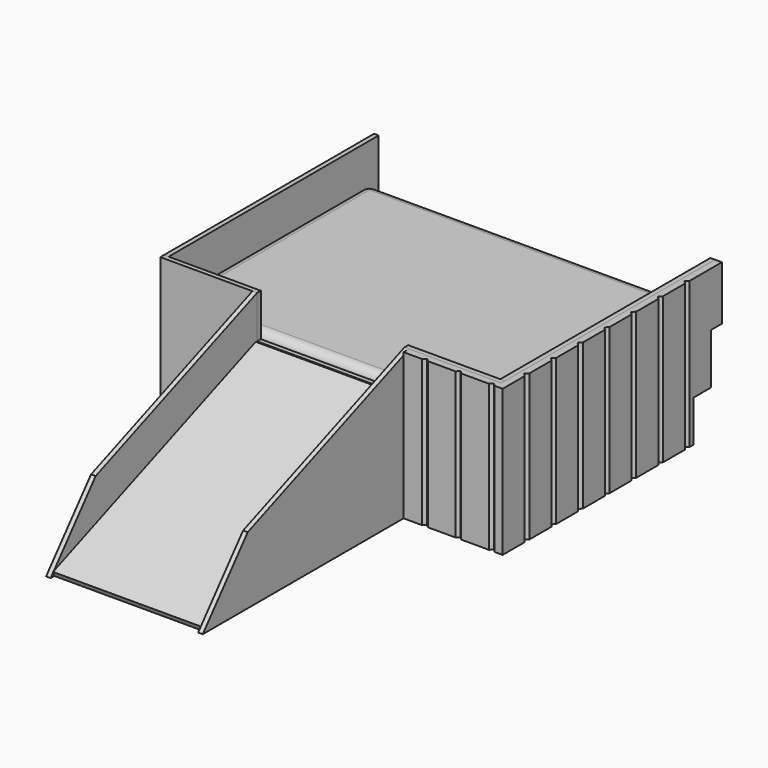
from build123d import *

# Parameters (mm, degrees)
F0_W      = 914.4
F0_H      = 685.8
F1_DEPTH  = 12.7
F2_W      = 38.1
F2_H      = 88.9
F3_DEPTH  = 215.9
F4_W      = 38.1
F4_H      = 88.9
F5_DEPTH  = 279.4
F7_DEPTH  = 914.4
F8_W      = 406.4
F8_H      = 750.4688468649
F9_DEPTH  = 12.7
F11_DEPTH = 12.7
F13_DEPTH = 12.7
F15_DEPTH = 12.7
F17_DEPTH = 12.7
F18_W     = 38.1
F18_H     = 88.9
F19_DEPTH = 838.2
F20_W     = 38.1
F20_H     = 88.9
F21_DEPTH = 546.1
F24_DEPTH = 19.05
F27_DEPTH = 403.225
F28_W     = 914.4
F28_H     = 685.8
F29_DEPTH = 76.2
F30_R     = 25.4
F32_DEPTH = 19.05


with BuildPart() as f1:
    # F0 (on Top) → F1 (new body)
    with BuildSketch(Plane.XY):
        with Locations((0, -342.9)):
            Rectangle(F0_W, F0_H)
    extrude(amount=-F1_DEPTH)

    # F2 (on face) → F3 (join)
    with BuildSketch(Plane(origin=(0, 0, -12.7), x_dir=(1, 0, 0), z_dir=(0, 0, -1))):
        with Locations((-438.15, 107.95)):
            Rectangle(F2_W, F2_H)
        with Locations((-438.15, 641.35)):
            Rectangle(F2_W, F2_H)
        with Locations((438.15, 107.95)):
            Rectangle(F2_W, F2_H)
        with Locations((438.15, 641.35)):
            Rectangle(F2_W, F2_H)
        with Locations((-38.1, 146.05)):
            Rectangle(F2_W, F2_H)
        with Locations((38.1, 603.25)):
            Rectangle(F2_W, F2_H)
    extrude(amount=F3_DEPTH)


with BuildPart() as f5:
    # F4 (on face) → F5 (new body)
    with BuildSketch(Plane(origin=(0, 0, -228.6), x_dir=(1, 0, 0), z_dir=(0, 0, -1))):
        with Locations((184.15, 742.95)):
            Rectangle(F4_W, F4_H)
    extrude(amount=-F5_DEPTH)


with BuildPart() as f5b:
    # F4 (on face) → F5, piece 2 (new body)
    with BuildSketch(Plane(origin=(0, 0, -228.6), x_dir=(1, 0, 0), z_dir=(0, 0, -1))):
        with Locations((-184.15, 742.95)):
            Rectangle(F4_W, F4_H)
    extrude(amount=-F5_DEPTH)


with BuildPart() as f5c:
    # F4 (on face) → F5, piece 3 (new body)
    with BuildSketch(Plane(origin=(0, 0, -228.6), x_dir=(1, 0, 0), z_dir=(0, 0, -1))):
        with Locations((184.15, 1035.05)):
            Rectangle(F4_W, F4_H)
    extrude(amount=-F5_DEPTH)


with BuildPart() as f5d:
    # F4 (on face) → F5, piece 4 (new body)
    with BuildSketch(Plane(origin=(0, 0, -228.6), x_dir=(1, 0, 0), z_dir=(0, 0, -1))):
        with Locations((-184.15, 1035.05)):
            Rectangle(F4_W, F4_H)
    extrude(amount=-F5_DEPTH)


with BuildPart() as f7_tool:
    # F6 (on face) → F7 (new body)
    with BuildSketch(Plane(origin=(-203.2, 0, 0), x_dir=(0, -1, 0), z_dir=(-1, 0, 0))):
        Polygon((685.8, 149.225), (685.8, 50.8), (1397, -228.6), (1397, 149.225), align=None)
    extrude(amount=-F7_DEPTH)


with BuildPart() as f5_1:
    add(f5.part)

    # F7: cut by f7_tool
    add(f7_tool.part, mode=Mode.SUBTRACT)


with BuildPart() as f5b_1:
    add(f5b.part)

    # F7: cut by f7_tool
    add(f7_tool.part, mode=Mode.SUBTRACT)


with BuildPart() as f5c_1:
    add(f5c.part)

    # F7: cut by f7_tool
    add(f7_tool.part, mode=Mode.SUBTRACT)


with BuildPart() as f5d_1:
    add(f5d.part)

    # F7: cut by f7_tool
    add(f7_tool.part, mode=Mode.SUBTRACT)


with BuildPart() as f9:
    # F8 (on face) → F9 (new body)
    with BuildSketch(Plane(origin=(0, -108.9814364641, 277.4072928177), x_dir=(1, 0, 0), z_dir=(0, -0.3656523724, 0.9307514934))):
        with Locations((0, -1008.6135452396)):
            Rectangle(F8_W, F8_H)
    extrude(amount=F9_DEPTH)


with BuildPart() as f11:
    # F10 (on face) → F11 (new body)
    with BuildSketch(Plane.XZ.offset(685.8)):
        Polygon((-469.9, -228.6), (469.9, -228.6), (469.9, 174.625), (203.2, 174.625), (203.2, 57.15), (-203.2, 57.15), (-203.2, 174.625), (-469.9, 174.625), align=None)
    extrude(amount=F11_DEPTH)


with BuildPart() as f13:
    # F12 (on face) → F13 (new body)
    with BuildSketch(Plane.YZ.offset(457.2)):
        Polygon((-685.8, 174.625), (-685.8, -228.6), (-60.325, -228.6), (-60.325, -114.3), (0, -114.3), (0, 25.4), (38.1, 25.4), (38.1, 174.625), align=None)
    extrude(amount=F13_DEPTH)


with BuildPart() as f15:
    # F14 (on face) → F15 (new body)
    with BuildSketch(Plane(origin=(-457.2, 0, 0), x_dir=(0, -1, 0), z_dir=(-1, 0, 0))):
        Polygon((60.325, -228.6), (685.8, -228.6), (685.8, 174.625), (-38.1, 174.625), (-38.1, 25.4), (0, 25.4), (0, -114.3), (60.325, -114.3), align=None)
    extrude(amount=F15_DEPTH)


with BuildPart() as f17:
    # F16 (on face) → F17 (new body)
    with BuildSketch(Plane.YZ.offset(203.2)):
        Polygon((-1409.7, -228.6), (-698.5, -228.6), (-698.5, 174.625), (-1254.7049439564, -43.8840851257), align=None)
    extrude(amount=F17_DEPTH)


with BuildPart() as f19:
    # F18 (on face) → F19 (new body)
    with BuildSketch(Plane(origin=(419.1, 0, 0), x_dir=(0, -1, 0), z_dir=(-1, 0, 0))):
        with Locations((666.75, -57.15)):
            Rectangle(F18_W, F18_H)
    extrude(amount=F19_DEPTH)


with BuildPart() as f19b:
    # F18 (on face) → F19, piece 2 (new body)
    with BuildSketch(Plane(origin=(419.1, 0, 0), x_dir=(0, -1, 0), z_dir=(-1, 0, 0))):
        with Locations((82.55, -57.15)):
            Rectangle(F18_W, F18_H)
    extrude(amount=F19_DEPTH)


with BuildPart() as f21:
    # F20 (on face) → F21 (new body, through all)
    with BuildSketch(Plane(origin=(0, -647.7, 0), x_dir=(-1, 0, 0), z_dir=(0, 1, 0))):
        with Locations((0, -57.15)):
            Rectangle(F20_W, F20_H)
    extrude(amount=F21_DEPTH)


with BuildPart() as f21b:
    # F20 (on face) → F21, piece 2 (new body, through all)
    with BuildSketch(Plane(origin=(0, -647.7, 0), x_dir=(-1, 0, 0), z_dir=(0, 1, 0))):
        with Locations((-400.05, -57.15)):
            Rectangle(F20_W, F20_H)
    extrude(amount=F21_DEPTH)


with BuildPart() as f21c:
    # F20 (on face) → F21, piece 3 (new body, through all)
    with BuildSketch(Plane(origin=(0, -647.7, 0), x_dir=(-1, 0, 0), z_dir=(0, 1, 0))):
        with Locations((400.05, -57.15)):
            Rectangle(F20_W, F20_H)
    extrude(amount=F21_DEPTH)


with BuildPart() as f22_1:
    # F22: copy of F17
    add(f17.part.moved(Location((-419.1, 0, 0))))


with BuildPart() as f24:
    # F23 (on face) → F24 (new body)
    with BuildSketch(Plane.YZ.offset(-165.1)):
        Polygon((-698.5, 4.8760499113), (-698.5, 45.8107142857), (-1397, -228.6), (-1292.8026725014, -228.6), align=None)
    extrude(amount=F24_DEPTH)


with BuildPart() as f25_1:
    # F25: copy of F24
    add(f24.part.moved(Location((311.15, 0, 0))))


with BuildPart() as f27:
    # F26 (on face) → F27 (new body, through all)
    with BuildSketch(Plane(origin=(0, 0, -228.6), x_dir=(1, 0, 0), z_dir=(0, 0, -1))):
        Polygon((215.9, 717.55), (215.9, 698.5), (469.9, 698.5), (469.9, 60.325), (488.95, 60.325), (488.95, 73.025), (481.0125, 80.9625), (488.95, 88.9), (488.95, 165.1), (481.0125, 173.0375), (488.95, 180.975), (488.95, 257.175), (481.0125, 265.1125), (488.95, 273.05), (488.95, 349.25), (481.0125, 357.1875), (488.95, 365.125), (488.95, 441.325), (481.0125, 449.2625), (488.95, 457.2), (488.95, 533.4), (481.0125, 541.3375), (488.95, 549.275), (488.95, 625.475), (481.0125, 633.4125), (488.95, 641.35), (488.95, 717.55), (466.725, 717.55), (458.7875, 709.6125), (450.85, 717.55), (374.65, 717.55), (366.7125, 709.6125), (358.775, 717.55), (282.575, 717.55), (274.6375, 709.6125), (266.7, 717.55), align=None)
    extrude(amount=-F27_DEPTH)

    # F31 (on face) → F32 (join)
    with BuildSketch(Plane.YZ.offset(469.9)):
        Polygon((38.1, 25.4), (38.1, 174.625), (-60.325, 174.625), (-60.325, -114.3), (0, -114.3), (0, 25.4), align=None)
    extrude(amount=F32_DEPTH)


with BuildPart() as f29:
    # F28 (on face) → F29 (new body)
    with BuildSketch(Plane.XY):
        with Locations((0, -342.9)):
            Rectangle(F28_W, F28_H)
    extrude(amount=F29_DEPTH)

    # F30
    f30_edges = [f29.edges().sort_by_distance(p)[0] for p in [
        (-457.2, -342.9, 76.2),
        (0, -685.8, 76.2),
        (457.2, -342.9, 76.2),
        (0, 0, 76.2),
        (457.2, 0, 38.1),
        (-457.2, 0, 38.1),
        (0, 0, 0),
        (457.2, -685.8, 38.1),
        (457.2, -342.9, 0),
        (-457.2, -685.8, 38.1),
        (0, -685.8, 0),
        (-457.2, -342.9, 0),
    ]]
    fillet(f30_edges, radius=F30_R)


solid = Compound([f1.part, f5_1.part, f5b_1.part, f5c_1.part, f5d_1.part, f9.part, f11.part, f13.part, f15.part, f17.part, f19.part, f19b.part, f21.part, f21b.part, f21c.part, f22_1.part, f24.part, f25_1.part, f27.part, f29.part])
